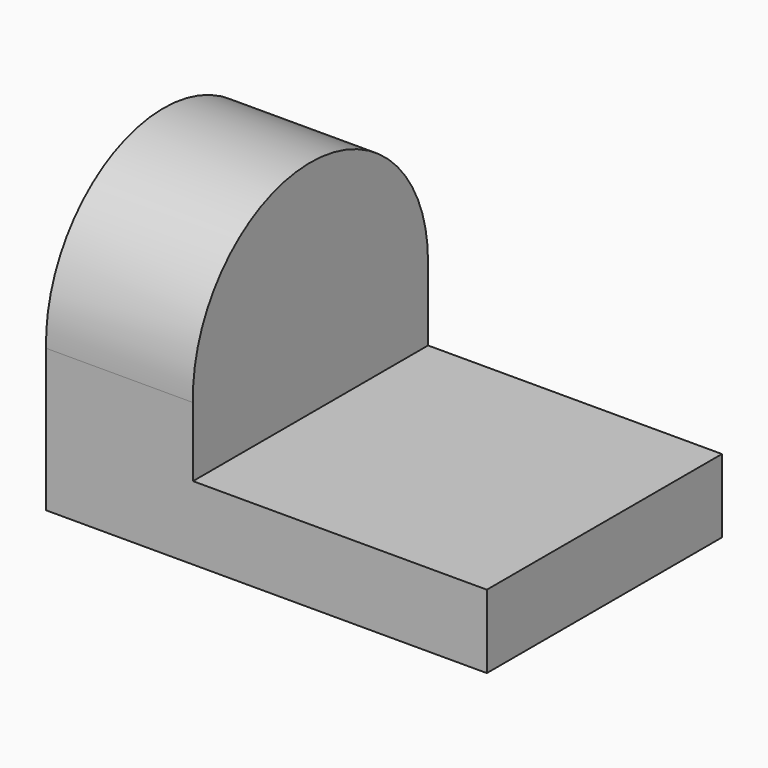
from build123d import *

# Parameters (mm, degrees)
F0_W     = 38.1
F0_H     = 6.35
F1_DEPTH = 25.4
F2_W     = 25.4
F2_H     = 6.35
F3_DEPTH = 12.7
F4_R     = 12.7
F5_DEPTH = 12.7


with BuildPart() as f1:
    # F0 (on Front) → F1 (new body)
    with BuildSketch(Plane.XZ):
        with Locations((19.05, 3.175)):
            Rectangle(F0_W, F0_H)
    extrude(amount=F1_DEPTH)

    # F2 (on Right) → F3 (join)
    with BuildSketch(Plane.YZ):
        with Locations((-12.7, 9.525)):
            Rectangle(F2_W, F2_H)
    extrude(amount=F3_DEPTH)

    # F4 (on Right) → F5 (join)
    with BuildSketch(Plane.YZ):
        with Locations((-12.706821, 12.748167)):
            Circle(F4_R)
    extrude(amount=F5_DEPTH)


solid = f1.part
